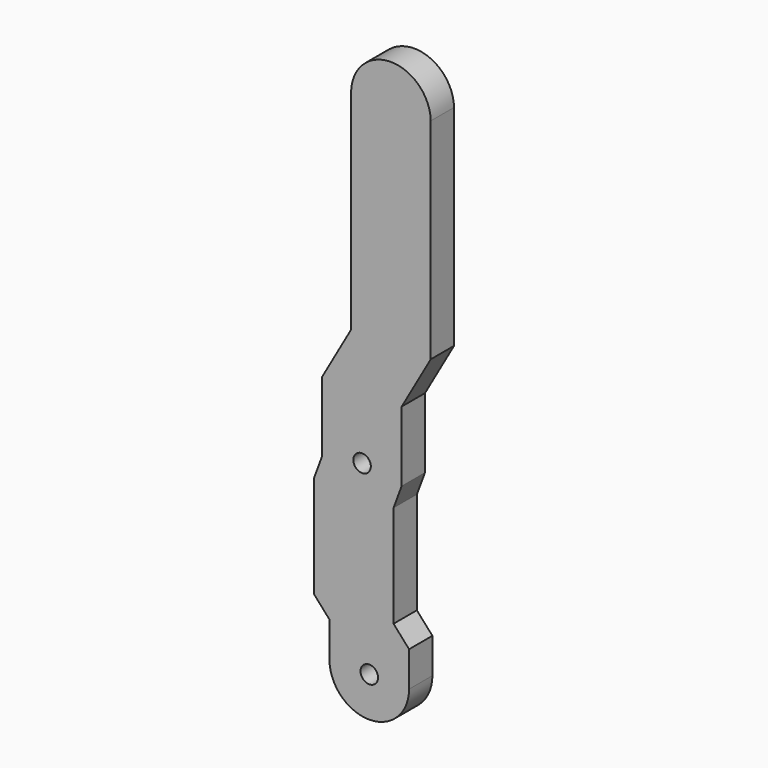
from build123d import *

# Parameters (mm, degrees)
F0_R     = 3
F1_DEPTH = 10


with BuildPart() as f1:
    # F0 (on Front) → F1 (new body)
    with BuildSketch(Plane.XZ):
        with BuildLine():
            ThreePointArc((-21.40014, 68.208159), (-35.014491, 81.592238), (-48.712137, 68.293419))
            Line((-48.712137, 68.293419), (-48.712137, -3.706581))
            Line((-48.712137, -3.706581), (-58.68246, -21.230183))
            Line((-58.68246, -21.230183), (-58.68246, -45.230183))
            Line((-58.68246, -45.230183), (-61.472507, -52.727892))
            Line((-61.472507, -52.727892), (-61.472507, -87.727892))
            Line((-61.472507, -87.727892), (-56.144382, -93.695394))
            Line((-56.144382, -93.695394), (-56.144382, -105.746023))
            ThreePointArc((-56.144382, -105.746023), (-42.531147, -119.487347), (-28.832385, -105.831283))
            Line((-28.832385, -105.831283), (-28.832385, -93.780654))
            Line((-28.832385, -93.780654), (-34.160511, -87.813152))
            Line((-34.160511, -87.813152), (-34.160511, -52.813152))
            Line((-34.160511, -52.813152), (-31.370464, -45.315443))
            Line((-31.370464, -45.315443), (-31.370464, -21.315443))
            Line((-31.370464, -21.315443), (-21.40014, -3.791841))
            Line((-21.40014, -3.791841), (-21.40014, 67.656904))
            Line((-21.40014, 67.656904), (-21.40014, 68.208159))
        make_face()
        with Locations((-42.488516, -105.831283)):
            Circle(F0_R, mode=Mode.SUBTRACT)
        with Locations((-44.960245, -42.831283)):
            Circle(F0_R, mode=Mode.SUBTRACT)
    extrude(amount=F1_DEPTH)


solid = f1.part
